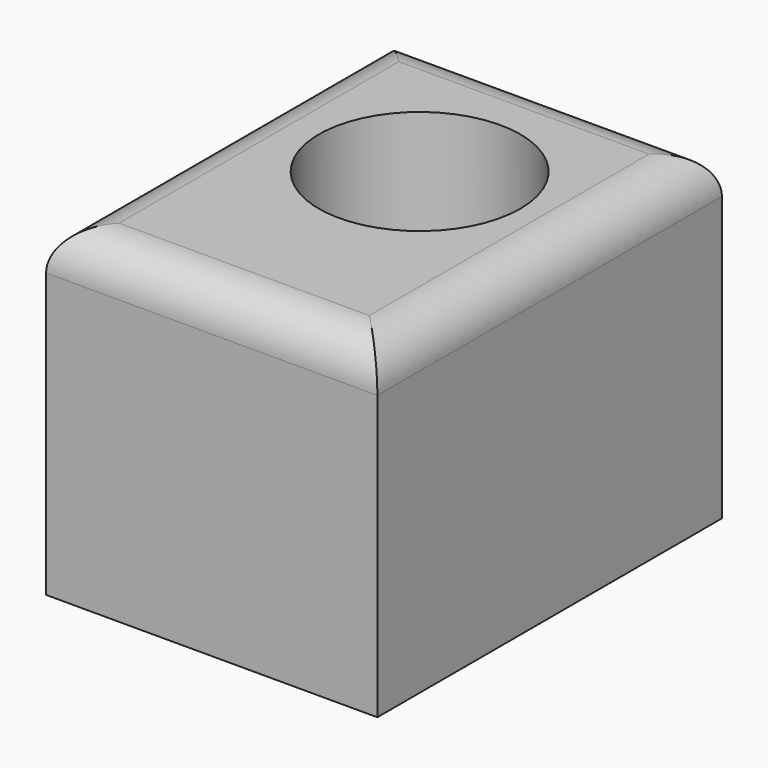
from build123d import *

# Parameters (mm, degrees)
F0_W     = 40.854881
F0_H     = 39.956439
F1_DEPTH = 53.121515
F2_R     = 5
F3_R     = 12.424577
F4_DEPTH = 39.957439


with BuildPart() as f1:
    # F0 (on Front) → F1 (new body)
    with BuildSketch(Plane.XZ):
        with Locations((24.789358, 34.14881)):
            Rectangle(F0_W, F0_H)
    extrude(amount=F1_DEPTH)

    # F2
    f2_edges = [f1.edges().sort_by_distance(p)[0] for p in [
        (45.216799, -26.560757, 54.12703),
        (4.361918, -26.560757, 54.12703),
        (24.789358, 0, 54.12703),
        (24.789358, -53.121515, 54.12703),
    ]]
    fillet(f2_edges, radius=F2_R)

    # F3 (on face) → F4 (cut, through all)
    with BuildSketch(Plane.XY.offset(54.12703)):
        with Locations((25.2368, -21.631569)):
            Circle(F3_R)
    extrude(amount=-F4_DEPTH, mode=Mode.SUBTRACT)


solid = f1.part
